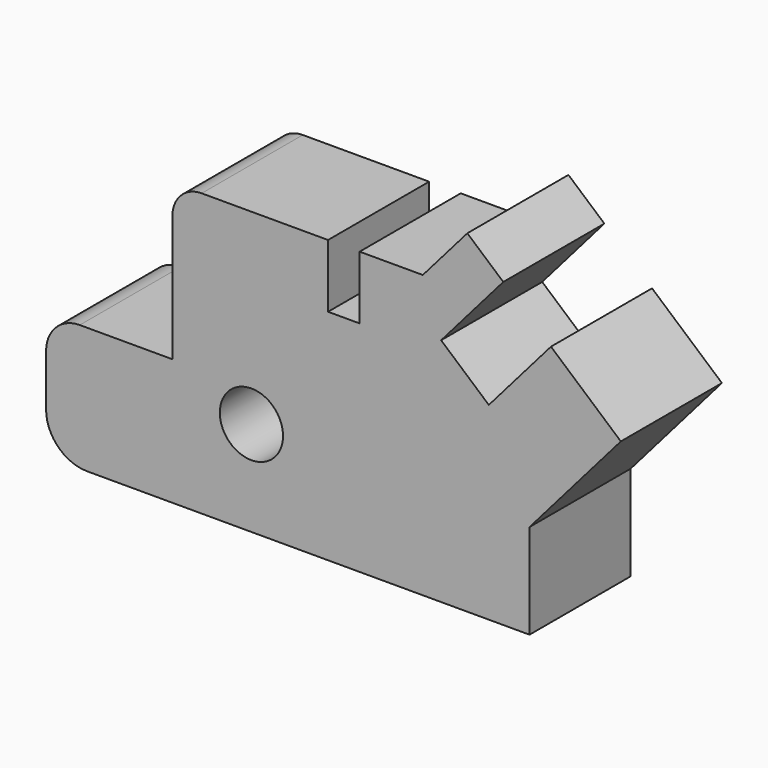
from build123d import *

# Parameters (mm, degrees)
F0_R     = 127
F1_DEPTH = 508


with BuildPart() as f1:
    # F0 (on Front) → F1 (new body)
    with BuildSketch(Plane.XZ):
        with BuildLine():
            ThreePointArc((99.221908, 0), (3.375029, -39.701077), (-36.326048, -135.547956))
            Line((-36.326048, -135.547956), (-36.326048, -342.463574))
            ThreePointArc((-36.326048, -342.463574), (12.158448, -459.515503), (129.210377, -508))
            Line((129.210377, -508), (1907.210377, -508))
            Line((1907.210377, -508), (1907.210377, -127))
            Line((1907.210377, -127), (2274.321509, 295.550238))
            Line((2274.321509, 295.550238), (1993.457048, 539.564939))
            Line((1993.457048, 539.564939), (1743.578506, 251.951111))
            Line((1743.578506, 251.951111), (1551.835954, 418.536806))
            Line((1551.835954, 418.536806), (1801.714496, 706.150634))
            Line((1801.714496, 706.150634), (1657.276625, 831.63808))
            Line((1657.276625, 831.63808), (1478.251401, 625.577449))
            Line((1478.251401, 625.577449), (1224.251401, 625.577449))
            Line((1224.251401, 625.577449), (1224.251401, 371.577449))
            Line((1224.251401, 371.577449), (1097.251401, 371.577449))
            Line((1097.251401, 371.577449), (1097.251401, 625.577449))
            Line((1097.251401, 625.577449), (589.251401, 625.577449))
            ThreePointArc((589.251401, 625.577449), (506.111589, 591.139812), (471.673952, 508))
            Line((471.673952, 508), (471.673952, 0))
            Line((471.673952, 0), (99.221908, 0))
        make_face()
        with Locations((789.173952, -127)):
            Circle(F0_R, mode=Mode.SUBTRACT)
    extrude(amount=F1_DEPTH)


solid = f1.part
